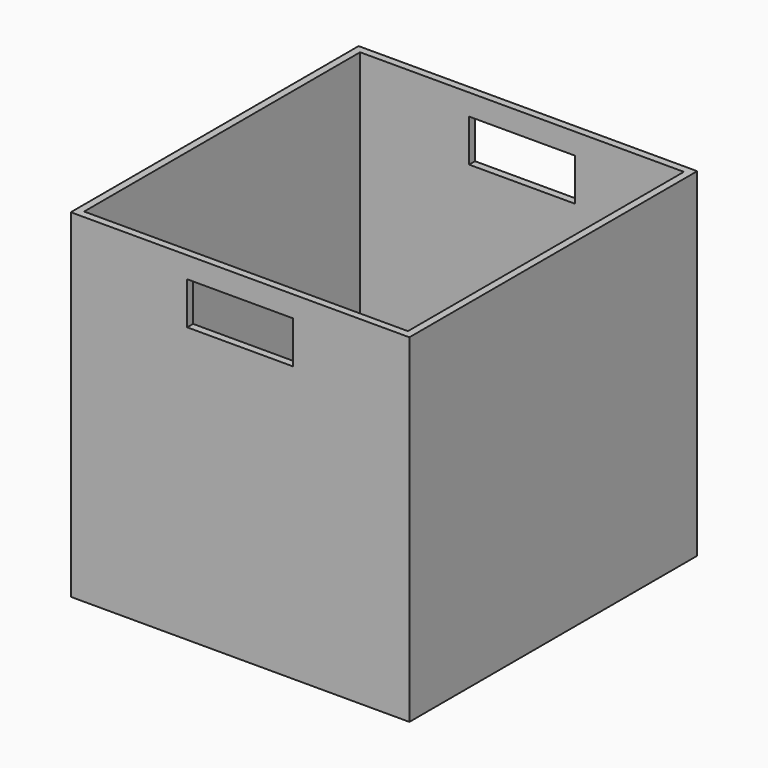
from build123d import *

# Parameters (mm, degrees)
F0_W     = 320
F0_H     = 320
F1_DEPTH = 170
F2_T     = -7
F3_W     = 100
F3_H     = 40
F4_DEPTH = 340.001


with BuildPart() as f1:
    # F0 (on Front) → F1 (new body, symmetric)
    with BuildSketch(Plane.XZ):
        with Locations((160, 160)):
            Rectangle(F0_W, F0_H)
    extrude(amount=F1_DEPTH, both=True)

    # F2
    f2_openings = [f1.faces().sort_by_distance(p)[0] for p in [
        (160, 0, 320),
    ]]
    offset(amount=F2_T, openings=f2_openings)

    # F3 (on face) → F4 (cut, through all)
    with BuildSketch(Plane.XZ.offset(170)):
        with Locations((160, 280)):
            Rectangle(F3_W, F3_H)
    extrude(amount=-F4_DEPTH, mode=Mode.SUBTRACT)


solid = f1.part
